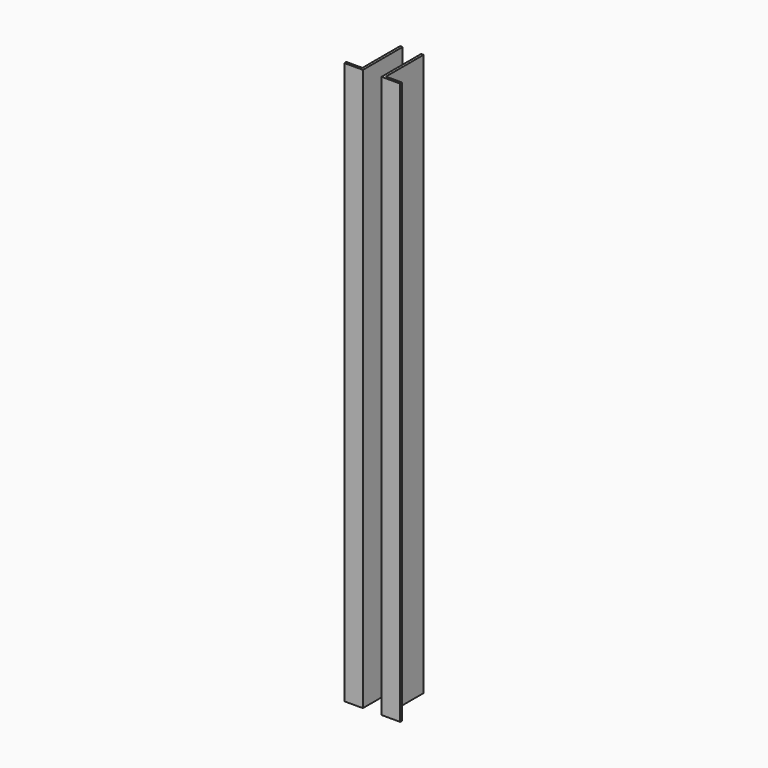
from build123d import *

# Parameters (mm, degrees)
PAD_DEPTH = 453


with BuildPart() as part:
    # Sketch → Pad (new body)
    with BuildSketch(Plane.XY):
        Polygon((-9.5, 38), (-7.5, 38), (-7.5, -2), (-22.5, -2), (-22.5, 0), (-9.5, 0), align=None)
        Polygon((7.5, -2), (7.5, 38), (9.5, 38), (9.5, 0), (22.5, 0), (22.5, -2), align=None)
    extrude(amount=PAD_DEPTH)


solid = part.part
